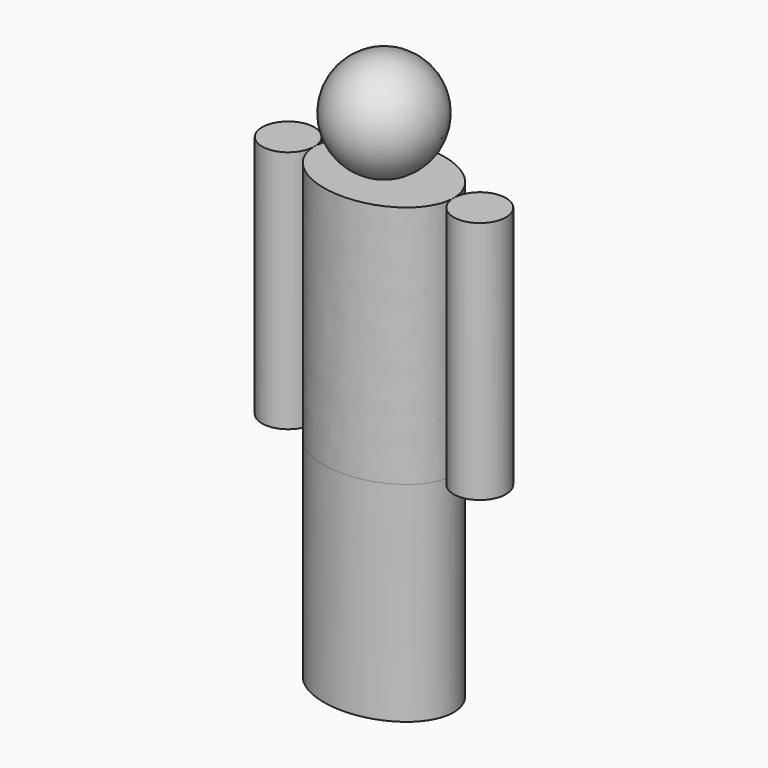
from build123d import *

# Parameters (mm, degrees)
F0_R     = 75
F3_DEPTH = 700
F4_DEPTH = 600


with BuildPart() as f2:
    # F1 (on Front) → F2 (revolve)
    with BuildSketch(Plane.XZ):
        with BuildLine():
            Line((0, 1000), (0, 700))
            ThreePointArc((0, 700), (150, 850), (0, 1000))
        make_face()
    revolve(axis=Axis((0, 0, 850), (0, 0, -1)))


with BuildPart() as f3:
    # F0 (on Top) → F3 (new body)
    with BuildSketch(Plane.XY):
        with BuildLine():
            ThreePointArc((200, 0), (275, -75), (350, 0))
            ThreePointArc((350, 0), (275, 75), (200, 0))
        make_face()
        with Locations((-275, 0)):
            Circle(F0_R)
        with BuildLine():
            add(Edge.make_bspline(
                [(-200, 0), (-200, -150), (0, -150), (200, -150), (200, 0)],
                knots=[3.141593, 3.141593, 3.141593, 4.712389, 4.712389, 6.283185, 6.283185, 6.283185], degree=2, weights=[1, 0.707107, 1, 0.707107, 1]))
            add(Edge.make_bspline(
                [(200, 0), (200, 150), (0, 150), (-200, 150), (-200, 0)],
                knots=[0, 0, 0, 1.570796, 1.570796, 3.141593, 3.141593, 3.141593], degree=2, weights=[1, 0.707107, 1, 0.707107, 1]))
        make_face()
    extrude(amount=F3_DEPTH)

    # F3_face (on face) → F4 (join)
    with BuildSketch(Plane(origin=(0, 0, 0), x_dir=(1, 0, 0), z_dir=(0, 0, -1))):
        with BuildLine():
            add(Edge.make_bspline(
                [(200, 0), (200, -150), (0, -150), (-200, -150), (-200, 0)],
                knots=[0, 0, 0, 1.570796, 1.570796, 3.141593, 3.141593, 3.141593], degree=2, weights=[1, 0.707107, 1, 0.707107, 1]))
            add(Edge.make_bspline(
                [(-200, 0), (-200, 150), (0, 150), (200, 150), (200, 0)],
                knots=[3.141593, 3.141593, 3.141593, 4.712389, 4.712389, 6.283185, 6.283185, 6.283185], degree=2, weights=[1, 0.707107, 1, 0.707107, 1]))
        make_face()
    extrude(amount=F4_DEPTH)


solid = Compound([f2.part, f3.part])
